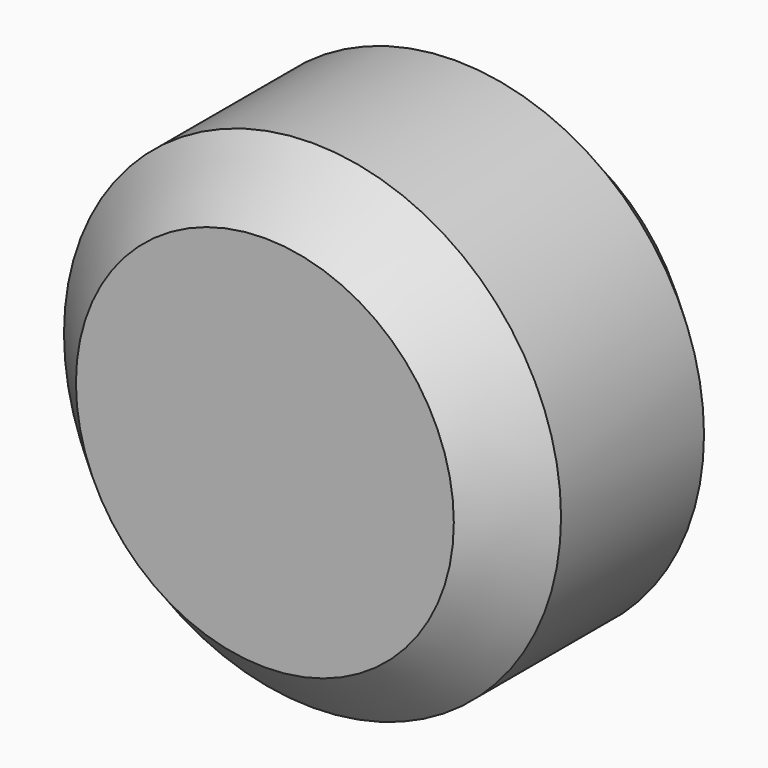
from build123d import *

# Parameters (mm, degrees)
F0_R     = 21.19436
F1_DEPTH = 25.4
F2_SIZE  = 5.08


with BuildPart() as f1:
    # F0 (on Front) → F1 (new body)
    with BuildSketch(Plane.XZ):
        with Locations((-27.953584, 20.394707)):
            Circle(F0_R)
    extrude(amount=F1_DEPTH)

    # F2
    f2_edges = [f1.edges().sort_by_distance(p)[0] for p in [
        (-6.759223, -12.7, 20.394707),
        (-49.147944, 0, 20.394707),
        (-49.147944, -25.4, 20.394707),
    ]]
    chamfer(f2_edges, length=F2_SIZE)


solid = f1.part
